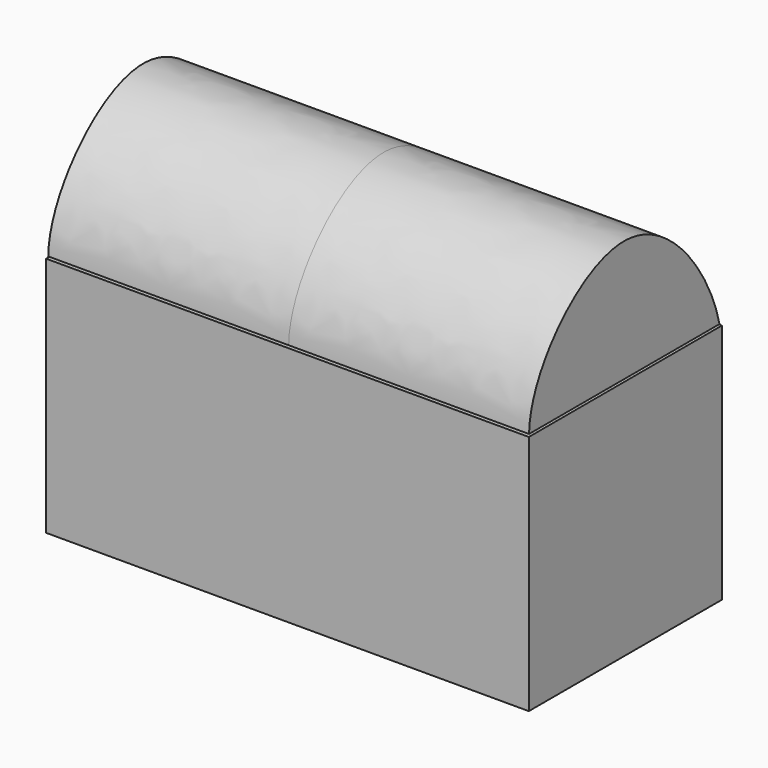
from build123d import *

# Parameters (mm, degrees)
F0_W          = 127
F0_H          = 63.5
F1_DEPTH      = 63.5
F2_T          = -7.62
F4_DEPTH      = 63.246
F4_DEPTH_BACK = 63.246


with BuildPart() as f1:
    # F0 (on Top) → F1 (new body)
    with BuildSketch(Plane.XY):
        Rectangle(F0_W, F0_H)
    extrude(amount=F1_DEPTH)

    # F2
    f2_openings = [f1.faces().sort_by_distance(p)[0] for p in [
        (0, 0, 63.5),
    ]]
    offset(amount=F2_T, openings=f2_openings)


with BuildPart() as f4:
    # F3 (on Right) → F4 (new body, two sides)
    with BuildSketch(Plane.YZ) as f4_sk:
        with BuildLine():
            add(Edge.make_bspline(
                [(-31.3647463918, 63.9516413212), (-31.1634073466, 78.2752707222), (1.5018892992, 113.7911647147), (28.1152354193, 77.8360987048), (31.2689505517, 63.9516413212)],
                knots=[0, 0, 0, 0, 0.5001872267, 1, 1, 1, 1], degree=3))
            Line((-31.3647463918, 63.9516413212), (31.2689505517, 63.9516413212))
        make_face()
    extrude(amount=F4_DEPTH)
    extrude(f4_sk.sketch, amount=-F4_DEPTH_BACK)


solid = Compound([f1.part, f4.part])
